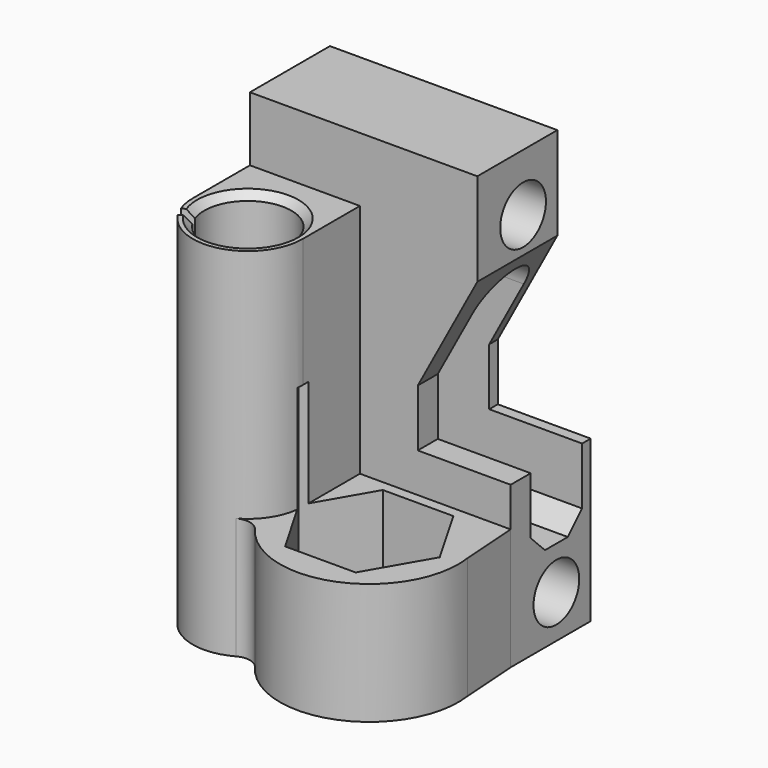
from build123d import *

# Parameters (mm, degrees)
PAD005_DEPTH    = 17
BOX_W           = 36.5
BOX_H           = 16
BOX_DEPTH       = 59
SKETCH_R        = 4
POCKET_DEPTH    = 36.501
POCKET001_DEPTH = 16.001
BOX001_W        = 2
BOX001_H        = 10
BOX001_DEPTH    = 21
PAD_DEPTH       = 3
PAD001_DEPTH    = 3
CHAMFER_SIZE    = 2.999
CHAMFER001_SIZE = 2.999
SKETCH005_R     = 1.5
POCKET002_DEPTH = 39.501
SKETCH006_W     = 10
SKETCH006_H     = 4.5
PAD002_DEPTH    = 2
POCKET003_DEPTH = 2
PAD003_DEPTH    = 50
CHAMFER002_SIZE = 1
CHAMFER003_SIZE = 1
SKETCH010_R     = 6
PAD004_DEPTH    = 17
POCKET004_DEPTH = 15
SKETCH013_W     = 36.5
SKETCH013_H     = 2
POCKET005_DEPTH = 59.001


with BuildPart() as pad005:
    # Sketch012 → Pad005 (new body)
    with BuildSketch(Plane(origin=(0, 0, -28.5), x_dir=(1, 0, 0), z_dir=(0, 0, -1))):
        Polygon((19.2, 18), (18.5, 8), (14.2, 8), align=None)
    extrude(amount=-PAD005_DEPTH)


with BuildPart() as pocket001:
    # Box → Box (new body)
    with BuildSketch(Plane(origin=(-18, -8, -28.5), x_dir=(1, 0, 0), z_dir=(0, 0, 1))):
        with Locations((18.25, 8)):
            Rectangle(BOX_W, BOX_H)
    extrude(amount=BOX_DEPTH)

    # Sketch → Pocket (cut, through all)
    with BuildSketch(Plane(origin=(18.5, -8, -28.5), x_dir=(0, 1, 0), z_dir=(1, 0, 0))):
        with Locations((8, 51)):
            Circle(SKETCH_R)
        with Locations((8, 6)):
            Circle(SKETCH_R)
        with BuildLine():
            ThreePointArc((12.5, 39.499979), (8.00001, 44), (3.5, 39.5))
            Line((3.5, 39.5), (3.5, 14.5))
            Line((3.5, 14.5), (6, 12))
            Line((6, 12), (10, 12))
            Line((10, 12), (12.5, 14.5))
            Line((12.5, 14.5), (12.5, 39.499979))
        make_face()
    extrude(amount=-POCKET_DEPTH, mode=Mode.SUBTRACT)

    # Sketch001 → Pocket001 (cut, through all)
    with BuildSketch(Plane(origin=(-18, 8, -28.5), x_dir=(-1, 0, 0), z_dir=(0, 1, 0))):
        Polygon((-36.5, 59), (-36.5, 22.5), (-23.5, 22.5), (-23.5, 30.5), (-31.837266, 46), (-31.837266, 59), align=None)
    extrude(amount=-POCKET001_DEPTH, mode=Mode.SUBTRACT)


with BuildPart() as fusion001:
    # Box001 → Box001 (new body)
    with BuildSketch(Plane(origin=(-18, -5, -17.5), x_dir=(1, 0, 0), z_dir=(0, 0, 1))):
        with Locations((1, 5)):
            Rectangle(BOX001_W, BOX001_H)
    extrude(amount=BOX001_DEPTH)

    # Fusion: union Pocket001
    add(pocket001.part)

    # Sketch003 → Pad (new body)
    with BuildSketch(Plane(origin=(-18, 0, 0), x_dir=(0, -1, 0), z_dir=(-1, 0, 0))):
        with BuildLine():
            Line((-2.5, 0), (-2.5, -4))
            Line((-2.5, -4), (2.5, -4))
            Line((2.5, -4), (2.5, 0))
            ThreePointArc((2.5, 0), (0, 2.5), (-2.5, 0))
        make_face()
    extrude(amount=PAD_DEPTH)

    # Sketch004 → Pad001 (new body)
    with BuildSketch(Plane.YZ.offset(-16)):
        with BuildLine():
            ThreePointArc((2.5, 0), (0, 2.5), (-2.5, 0))
            Line((-2.5, 0), (-2.5, -4))
            Line((-2.5, -4), (2.5, -4))
            Line((2.5, -4), (2.5, 0))
        make_face()
    extrude(amount=PAD001_DEPTH)

    # Chamfer
    chamfer_edges = [fusion001.edges().sort_by_distance(p)[0] for p in [
        (-18, 0, -4),
    ]]
    chamfer(chamfer_edges, length=CHAMFER_SIZE)

    # Chamfer001
    chamfer001_edges = [fusion001.edges().sort_by_distance(p)[0] for p in [
        (-16, 0, -4),
    ]]
    chamfer(chamfer001_edges, length=CHAMFER001_SIZE)

    # Sketch005 → Pocket002 (cut, through all)
    with BuildSketch(Plane(origin=(-21, 0, 0), x_dir=(0, -1, 0), z_dir=(-1, 0, 0))):
        Circle(SKETCH005_R)
    extrude(amount=-POCKET002_DEPTH, mode=Mode.SUBTRACT)

    # Sketch006 → Pad002 (new body)
    with BuildSketch(Plane(origin=(-18, 0, 0), x_dir=(0, -1, 0), z_dir=(-1, 0, 0))):
        with Locations((0, 20.25)):
            Rectangle(SKETCH006_W, SKETCH006_H)
        with Locations((0, -24.55)):
            Rectangle(SKETCH006_W, SKETCH006_H)
    extrude(amount=-PAD002_DEPTH)

    # Sketch007 → Pocket003 (cut)
    with BuildSketch(Plane(origin=(-18, 0, 0), x_dir=(0, -1, 0), z_dir=(-1, 0, 0))):
        with BuildLine():
            Line((-1.527433, 26.519571), (0, 27.1))
            Line((0, 27.1), (1.527433, 26.519571))
            ThreePointArc((4.3, 22.5), (3.53963, 24.94152), (1.527433, 26.519571))
            Line((-4.3, 22.5), (4.3, 22.5))
            ThreePointArc((-1.527433, 26.519571), (-3.53963, 24.94152), (-4.3, 22.5))
        make_face()
        with BuildLine():
            Line((-1.527433, -18.480429), (0, -17.9))
            Line((0, -17.9), (1.527433, -18.480429))
            ThreePointArc((4.295346, -22.3), (3.481877, -19.976802), (1.527433, -18.480429))
            Line((-4.295346, -22.3), (4.295346, -22.3))
            ThreePointArc((-1.527433, -18.480429), (-3.481877, -19.976802), (-4.295346, -22.3))
        make_face()
    extrude(amount=-POCKET003_DEPTH, mode=Mode.SUBTRACT)

    # Sketch009 → Pad003 (new body)
    with BuildSketch(Plane(origin=(0, 0, -28.5), x_dir=(1, 0, 0), z_dir=(0, 0, -1))):
        with BuildLine():
            ThreePointArc((-17.535633, 20.633555), (-17.883023, 19.337073), (-18, 17.999963))
            Line((-18, 17.999963), (-18, 8))
            ThreePointArc((-18, 8), (-10.3, 6.568948), (-2.6, 8))
            Line((-2.6, 17.999963), (-2.6, 8))
            ThreePointArc((-2.6, 17.999963), (-8.162477, 25.397364), (-16.813266, 22.106991))
            Line((-16.813266, 22.106991), (-15.45986, 21.25359))
            ThreePointArc((-16.032125, 20.086323), (-4.822824, 15.314755), (-15.45986, 21.25359))
            Line((-17.535633, 20.633555), (-16.032125, 20.086323))
        make_face()
    extrude(amount=-PAD003_DEPTH)

    # Chamfer002
    chamfer002_edges = [fusion001.edges().sort_by_distance(p)[0] for p in [
        (-4.822824, -15.314755, 21.5),
    ]]
    chamfer(chamfer002_edges, length=CHAMFER002_SIZE)

    # Chamfer003
    chamfer003_edges = [fusion001.edges().sort_by_distance(p)[0] for p in [
        (-4.822824, -15.314755, -28.5),
    ]]
    chamfer(chamfer003_edges, length=CHAMFER003_SIZE)

    # Sketch010 → Pad004 (new body)
    with BuildSketch(Plane(origin=(0, 0, -28.5), x_dir=(1, 0, 0), z_dir=(0, 0, -1))):
        with BuildLine():
            ThreePointArc((14.2, 8), (15.510359, 26.867219), (-3.34804, 25.435515))
            ThreePointArc((-6.569019, 24.73571), (-4.826868, 24.479615), (-3.34804, 25.435515))
            ThreePointArc((-2.6, 17.999963), (-3.666042, 21.909041), (-6.569019, 24.73571))
            Line((-2.6, 17.999963), (-2.6, 8))
            Line((-2.6, 8), (14.2, 8))
        make_face()
        with Locations((6.7, 18)):
            Circle(SKETCH010_R, mode=Mode.SUBTRACT)
    extrude(amount=-PAD004_DEPTH)

    # Sketch011 → Pocket004 (cut, symmetric)
    with BuildSketch(Plane.XY.offset(-11.5)):
        Polygon((11.636345, -26.55), (16.57269, -18), (11.636345, -9.45), (1.763655, -9.45), (-3.17269, -18), (1.763655, -26.55), align=None)
    extrude(amount=POCKET004_DEPTH, both=True, mode=Mode.SUBTRACT)

    # Sketch013 → Pocket005 (cut, through all)
    with BuildSketch(Plane(origin=(0, 0, -28.5), x_dir=(1, 0, 0), z_dir=(0, 0, -1))):
        with Locations((0.25, -7)):
            Rectangle(SKETCH013_W, SKETCH013_H)
    extrude(amount=-POCKET005_DEPTH, mode=Mode.SUBTRACT)

    # Fusion001: union Pad005
    add(pad005.part)


solid = fusion001.part
